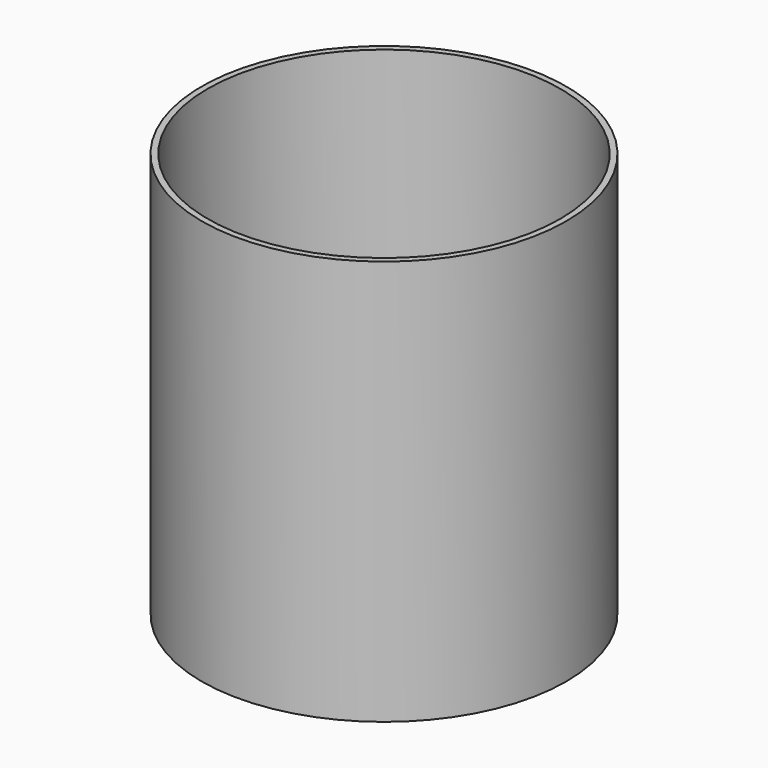
from build123d import *

# Parameters (mm, degrees)
F0_R     = 45
F1_DEPTH = 100
F2_R     = 43.5
F3_DEPTH = 4000


with BuildPart() as f1:
    # F0 (on Top) → F1 (new body)
    with BuildSketch(Plane.XY):
        Circle(F0_R)
    extrude(amount=F1_DEPTH)

    # F2 (on face) + F0 (on Top) → F3 (cut)
    with BuildSketch(Plane.XY.offset(100)):
        Circle(F2_R)
    with BuildSketch(Plane.XY):
        Circle(F0_R)
    extrude(amount=-F3_DEPTH, mode=Mode.SUBTRACT)


solid = f1.part
